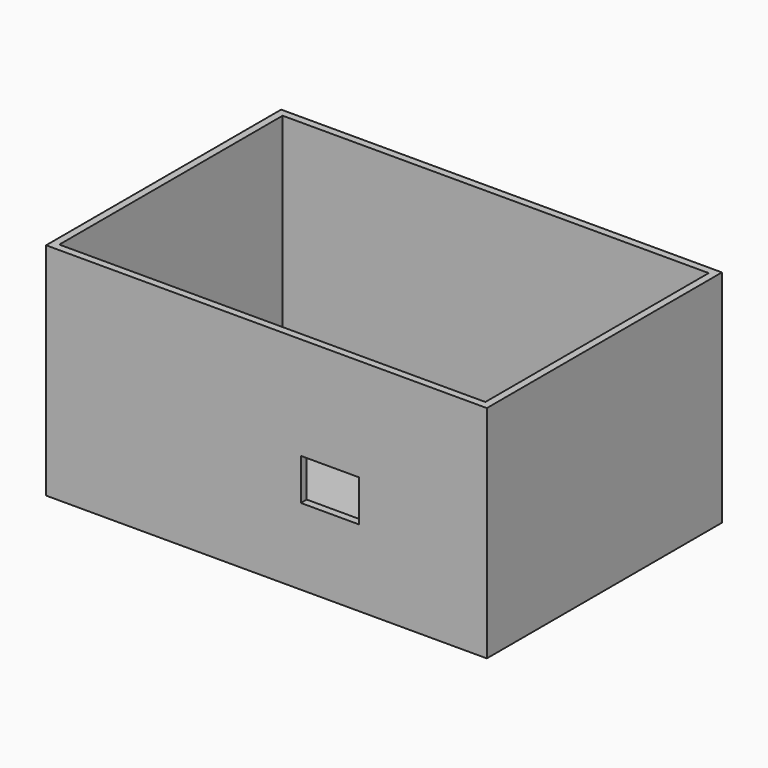
from build123d import *

# Parameters (mm, degrees)
F0_W     = 152.4
F0_H     = 101.6
F1_DEPTH = 76.2
F2_T     = -2.54
F3_R     = 1.25
F4_DEPTH = 2.541
F5_W     = 20.111805
F5_H     = 14.340593
F6_DEPTH = 25.4


with BuildPart() as f1:
    # F0 (on Top) → F1 (new body)
    with BuildSketch(Plane.XY):
        with Locations((15.56479, 5.227069)):
            Rectangle(F0_W, F0_H)
    extrude(amount=F1_DEPTH)

    # F2
    f2_openings = [f1.faces().sort_by_distance(p)[0] for p in [
        (15.56479, 5.227069, 76.2),
    ]]
    offset(amount=F2_T, openings=f2_openings)

    # F3 (on face) → F4 (cut, through all)
    with BuildSketch(Plane.XY.offset(2.54)):
        with Locations((21.336, -24.30905)):
            Circle(F3_R)
        with Locations((36.536, 26.49095)):
            Circle(F3_R)
        with Locations((64.436, 26.49095)):
            Circle(F3_R)
        with Locations((69.536, -24.30905)):
            Circle(F3_R)
    extrude(amount=-F4_DEPTH, mode=Mode.SUBTRACT)

    # F5 (on face) → F6 (cut)
    with BuildSketch(Plane.XZ.offset(45.572931)):
        with Locations((37.512888, 33.577968)):
            Rectangle(F5_W, F5_H)
    extrude(amount=-F6_DEPTH, mode=Mode.SUBTRACT)


solid = f1.part
